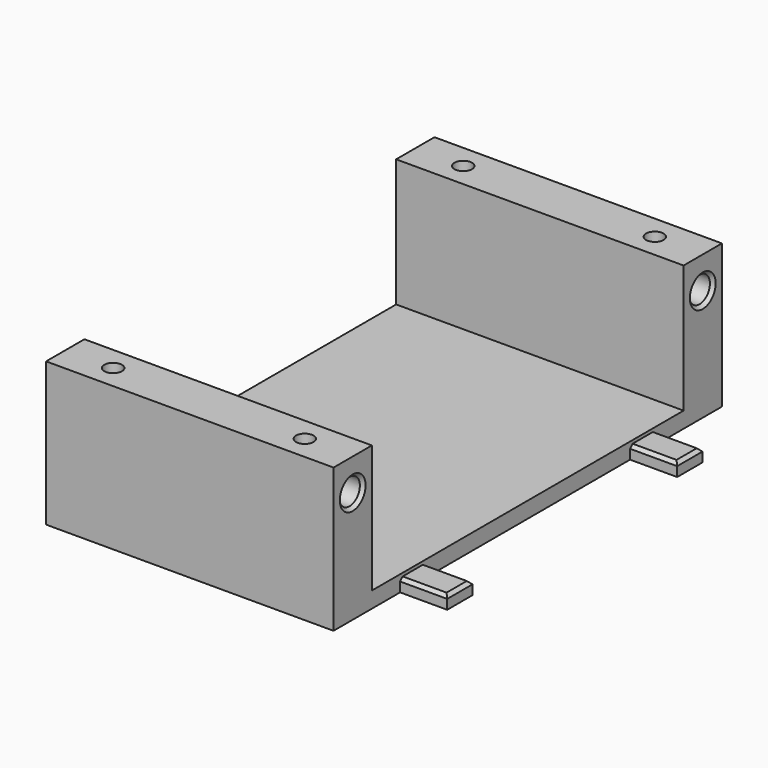
from build123d import *

# Parameters (mm, degrees)
SKETCH_W        = 90
SKETCH_H        = 152
PAD_DEPTH       = 5
SKETCH001_W     = 14.75
SKETCH001_H     = 9.9
PAD001_DEPTH    = 4
SKETCH002_W     = 15
SKETCH002_H     = 10
POCKET_DEPTH    = 4
SKETCH003_W     = 90
SKETCH003_H     = 15
PAD002_DEPTH    = 40
SKETCH004_R     = 2.75
POCKET001_DEPTH = 45.001
SKETCH005_R     = 5
POCKET002_DEPTH = 34
CHAMFER_SIZE    = 1
SKETCH006_R     = 4.05
POCKET003_DEPTH = 9
SKETCH007_R     = 4.05
POCKET004_DEPTH = 9
CHAMFER001_SIZE = 1


with BuildPart() as part:
    # Sketch → Pad (new body)
    with BuildSketch(Plane.XY):
        with Locations((45, 76)):
            Rectangle(SKETCH_W, SKETCH_H)
    extrude(amount=PAD_DEPTH)

    # Sketch001 (on Face5 of Pad) → Pad001 (join)
    with BuildSketch(Plane(origin=(0, 0, 0), x_dir=(1, 0, 0), z_dir=(0, 0, -1))):
        with Locations((97.375, -31)):
            Rectangle(SKETCH001_W, SKETCH001_H)
        with Locations((97.375, -121)):
            Rectangle(SKETCH001_W, SKETCH001_H)
    extrude(amount=-PAD001_DEPTH)

    # Sketch002 (on Face14 of Pad001) → Pocket (cut)
    with BuildSketch(Plane(origin=(0, 0, 0), x_dir=(1, 0, 0), z_dir=(0, 0, -1))):
        with Locations((7.5, -31)):
            Rectangle(SKETCH002_W, SKETCH002_H)
        with Locations((7.5, -121)):
            Rectangle(SKETCH002_W, SKETCH002_H)
    extrude(amount=-POCKET_DEPTH, mode=Mode.SUBTRACT)

    # Sketch003 (on Face5 of Pocket) → Pad002 (join)
    with BuildSketch(Plane.XY.offset(5)):
        with Locations((45, 144.5)):
            Rectangle(SKETCH003_W, SKETCH003_H)
        with Locations((45, 7.5)):
            Rectangle(SKETCH003_W, SKETCH003_H)
    extrude(amount=PAD002_DEPTH)

    # Sketch004 (on Face1 of Pad002) → Pocket001 (cut, through all)
    with BuildSketch(Plane(origin=(0, 0, 0), x_dir=(1, 0, 0), z_dir=(0, 0, -1))):
        with Locations((15, -7.5)):
            Circle(SKETCH004_R)
        with Locations((75, -7.5)):
            Circle(SKETCH004_R)
        with Locations((75, -144.5)):
            Circle(SKETCH004_R)
        with Locations((15, -144.5)):
            Circle(SKETCH004_R)
    extrude(amount=-POCKET001_DEPTH, mode=Mode.SUBTRACT)

    # Sketch005 (on Face1 of Pocket001) → Pocket002 (cut)
    with BuildSketch(Plane(origin=(0, 0, 0), x_dir=(1, 0, 0), z_dir=(0, 0, -1))):
        with Locations((15, -7.5)):
            Circle(SKETCH005_R)
        with Locations((75, -7.5)):
            Circle(SKETCH005_R)
        with Locations((75, -144.5)):
            Circle(SKETCH005_R)
        with Locations((15, -144.5)):
            Circle(SKETCH005_R)
    extrude(amount=-POCKET002_DEPTH, mode=Mode.SUBTRACT)

    # Chamfer
    chamfer_edges = [part.edges().sort_by_distance(p)[0] for p in [
        (97.375, 116.05, 4),
        (104.75, 121, 4),
        (97.375, 125.95, 4),
        (104.75, 31, 4),
        (97.375, 35.95, 4),
        (97.375, 26.05, 4),
        (7.5, 36, 0),
        (15, 31, 0),
        (7.5, 26, 0),
        (7.5, 126, 0),
        (15, 121, 0),
        (7.5, 116, 0),
    ]]
    chamfer(chamfer_edges, length=CHAMFER_SIZE)

    # Sketch006 (on Face6 of Chamfer) → Pocket003 (cut)
    with BuildSketch(Plane.YZ.offset(90)):
        with Locations((7.5, 35)):
            Circle(SKETCH006_R)
        with Locations((144.5, 35)):
            Circle(SKETCH006_R)
    extrude(amount=-POCKET003_DEPTH, mode=Mode.SUBTRACT)

    # Sketch007 (on Face2 of Pocket003) → Pocket004 (cut)
    with BuildSketch(Plane(origin=(0, 0, 0), x_dir=(0, -1, 0), z_dir=(-1, 0, 0))):
        with Locations((-144.5, 35)):
            Circle(SKETCH007_R)
        with Locations((-7.5, 35)):
            Circle(SKETCH007_R)
    extrude(amount=-POCKET004_DEPTH, mode=Mode.SUBTRACT)

    # Chamfer001
    chamfer001_edges = [part.edges().sort_by_distance(p)[0] for p in [
        (0, 11.55, 35),
        (0, 148.55, 35),
        (90, 3.45, 35),
        (90, 140.45, 35),
    ]]
    chamfer(chamfer001_edges, length=CHAMFER001_SIZE)


solid = part.part
